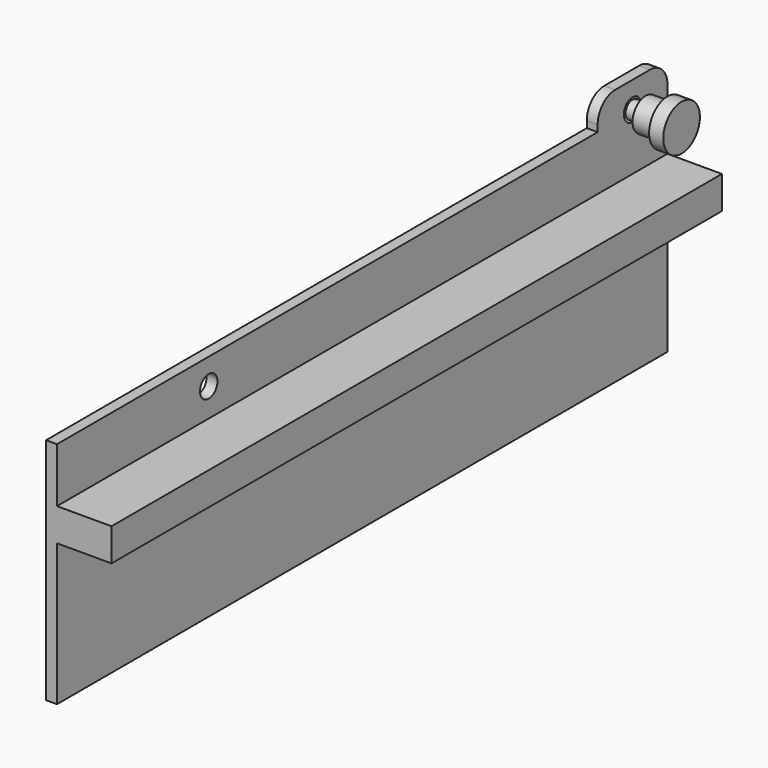
from build123d import *

# Parameters (mm, degrees)
F0_R      = 5
F1_DEPTH  = 5
F2_W      = 350
F2_H      = 15
F3_DEPTH  = 25
F4_R      = 2
F5_DEPTH  = 5
F6_R      = 4
F7_DEPTH  = 6
F8_R      = 10.5
F9_DEPTH  = 16.5
F10_R     = 12.131936
F10_R_2   = 7.5
F11_DEPTH = 10
F12_SIZE  = 0.3


with BuildPart() as f1:
    # F0 (on Right) → F1 (new body)
    with BuildSketch(Plane.YZ):
        with BuildLine():
            Line((-20, -1), (-330, -1))
            Line((-330, -1), (-330, -106))
            Line((-330, -106), (20, -106))
            Line((20, -106), (20, 2))
            ThreePointArc((20, 2), (17.071068, 9.071068), (10, 12))
            Line((10, 12), (-10, 12))
            ThreePointArc((-10, 12), (-17.071068, 9.071068), (-20, 2))
            Line((-20, 2), (-20, -1))
        make_face()
        with Locations((-243, -13)):
            Circle(F0_R, mode=Mode.SUBTRACT)
        Circle(F0_R, mode=Mode.SUBTRACT)
        with BuildLine():
            Line((-20, -1), (-330, -1))
            Line((-330, -1), (-330, -106))
            Line((-330, -106), (20, -106))
            Line((20, -106), (20, 2))
            ThreePointArc((20, 2), (17.071068, 9.071068), (10, 12))
            Line((10, 12), (-10, 12))
            ThreePointArc((-10, 12), (-17.071068, 9.071068), (-20, 2))
            Line((-20, 2), (-20, -1))
        make_face()
        with Locations((-243, -13)):
            Circle(F0_R, mode=Mode.SUBTRACT)
        Circle(F0_R, mode=Mode.SUBTRACT)
    extrude(amount=F1_DEPTH)

    # F2 (on face) → F3 (join)
    with BuildSketch(Plane.YZ.offset(5)):
        with Locations((-155, -33.5)):
            Rectangle(F2_W, F2_H)
    extrude(amount=F3_DEPTH)


with BuildPart() as f5:
    # F4 (on Right) → F5 (new body)
    with BuildSketch(Plane.YZ):
        Circle(F4_R)
    extrude(amount=F5_DEPTH)

    # F6 (on face) → F7 (join)
    with BuildSketch(Plane.YZ.offset(5)):
        Circle(F6_R)
    extrude(amount=F7_DEPTH)

    # F8 (on face) → F9 (join)
    with BuildSketch(Plane.YZ.offset(11)):
        Circle(F8_R)
    extrude(amount=F9_DEPTH)

    # F10 (on face) → F11 (cut)
    with BuildSketch(Plane(origin=(11, 0, 0), x_dir=(0, -1, 0), z_dir=(-1, 0, 0))):
        Circle(F10_R)
        Circle(F10_R_2, mode=Mode.SUBTRACT)
    extrude(amount=-F11_DEPTH, mode=Mode.SUBTRACT)

    # F12
    f12_edges = [f5.edges().sort_by_distance(p)[0] for p in [
        (0, -2, 0),
    ]]
    chamfer(f12_edges, length=F12_SIZE)


solid = Compound([f1.part, f5.part])
